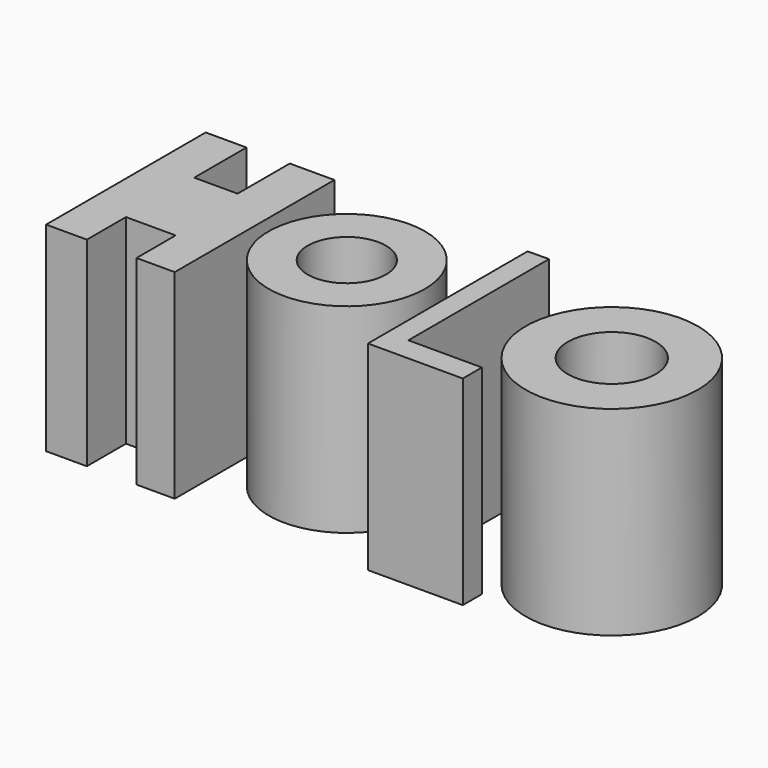
from build123d import *

# Parameters (mm, degrees)
F0_R     = 9.941985
F0_R_2   = 4.988307
F0_R_3   = 10.96765
F0_R_4   = 5.587823
F1_DEPTH = 25.4


with BuildPart() as f1:
    # F0 (on Top) → F1 (new body)
    with BuildSketch(Plane.XY):
        with Locations((-33.731204, 9.656987)):
            Circle(F0_R)
        with Locations((-33.731204, 9.656987)):
            Circle(F0_R_2, mode=Mode.SUBTRACT)
        Polygon((-45.476876, -3.043013), (-45.476876, 22.356987), (-51.152587, 22.356987), (-51.152587, 14.045181), (-56.666136, 14.045181), (-56.666136, 22.356987), (-61.855357, 22.356987), (-61.855357, -3.043013), (-56.666136, -3.043013), (-56.666136, 3.180248), (-50.34177, 3.180248), (-50.34177, -3.043013), align=None)
        Polygon((-18.17419, 22.394951), (-20.879675, 22.356987), (-20.879675, -3.043013), (-8.809221, -3.043013), (-8.809221, 0), (-18.17419, 0), align=None)
        with Locations((0, 9.656987)):
            Circle(F0_R_3)
        with Locations((0, 9.656987)):
            Circle(F0_R_4, mode=Mode.SUBTRACT)
    extrude(amount=F1_DEPTH)


solid = f1.part
